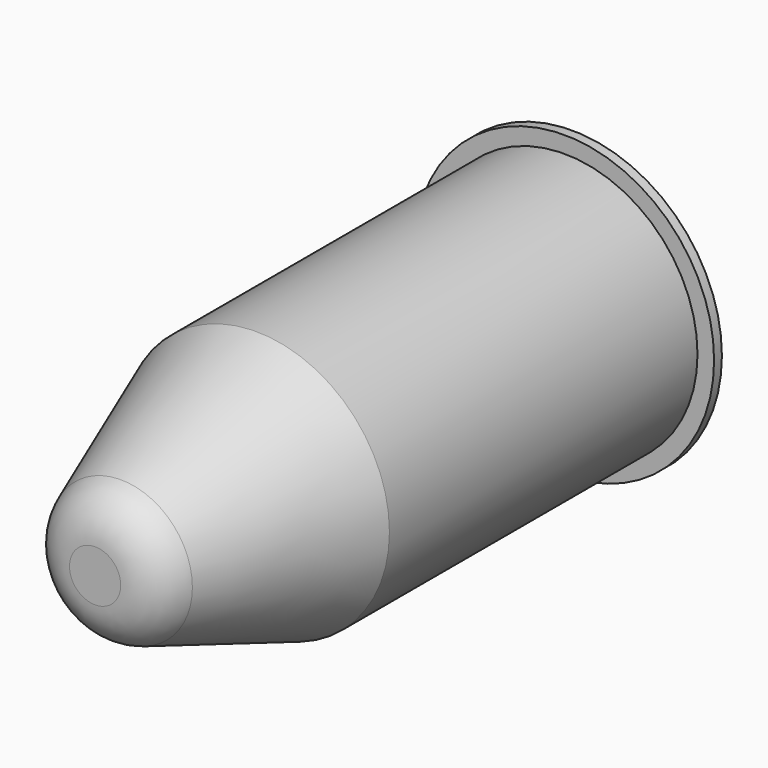
from build123d import *

# Parameters (mm, degrees)
F0_R     = 17.2972377105
F1_DEPTH = 76.2
F2_SIZE2 = 26.1697224203
F2_SIZE  = 9.525
F3_R     = 6.35
F4_R     = 19.4529047129
F5_DEPTH = 1.27


with BuildPart() as f1:
    # F0 (on Front) → F1 (new body)
    with BuildSketch(Plane.XZ):
        Circle(F0_R)
    extrude(amount=F1_DEPTH)

    # F2
    f2_edges = [f1.edges().sort_by_distance(p)[0] for p in [
        (-17.297238, -76.2, 0),
    ]]
    f2_side = f1.faces().sort_by_distance((0, -76.2, 0))[0]
    chamfer(f2_edges, length=F2_SIZE, length2=F2_SIZE2, reference=f2_side)

    # F3
    f3_edges = [f1.edges().sort_by_distance(p)[0] for p in [
        (-7.772238, -76.2, 0),
    ]]
    fillet(f3_edges, radius=F3_R)

    # F4 (on face) → F5 (join)
    with BuildSketch(Plane(origin=(0, 0, 0), x_dir=(-1, 0, 0), z_dir=(0, 1, 0))):
        Circle(F4_R)
    extrude(amount=F5_DEPTH)


solid = f1.part
